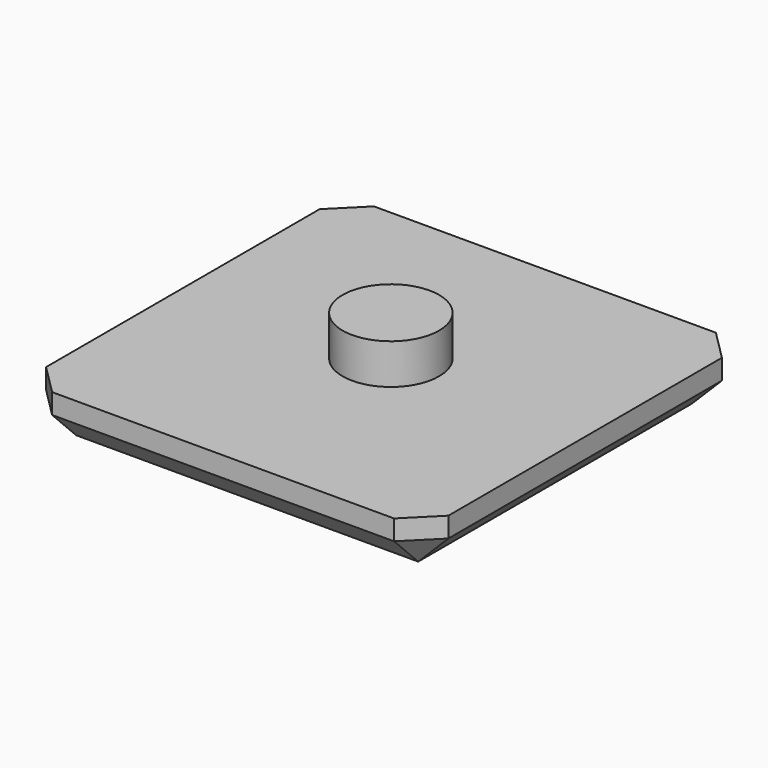
from build123d import *

# Parameters (mm, degrees)
BOX_W        = 20
BOX_H        = 20
BOX_DEPTH    = 2.5
SKETCH_R     = 2.4
PAD_DEPTH    = 2
CHAMFER_SIZE = 1.5


with BuildPart() as cubo:
    # Box → Box (new body)
    with BuildSketch(Plane.XY):
        with Locations((10, 10)):
            Rectangle(BOX_W, BOX_H)
    extrude(amount=BOX_DEPTH)


with BuildPart() as pad:
    # Pad base: copy of Cubo
    add(cubo.part)

    # Sketch → Pad (new body)
    with BuildSketch(Plane.XY.offset(2.5)):
        with Locations((10, 10.425099)):
            Circle(SKETCH_R)
    extrude(amount=PAD_DEPTH)


with BuildPart() as chamfer_body:
    # Fusion base: copy of Cubo
    add(cubo.part)

    # Fusion: union Pad
    add(pad.part)

    # Chamfer
    chamfer_edges = [chamfer_body.edges().sort_by_distance(p)[0] for p in [
        (0, 0, 1.25),
        (0, 10, 0),
        (0, 20, 1.25),
        (10, 0, 0),
        (20, 0, 1.25),
        (10, 20, 0),
        (20, 20, 1.25),
        (20, 10, 0),
    ]]
    chamfer(chamfer_edges, length=CHAMFER_SIZE)


solid = chamfer_body.part
